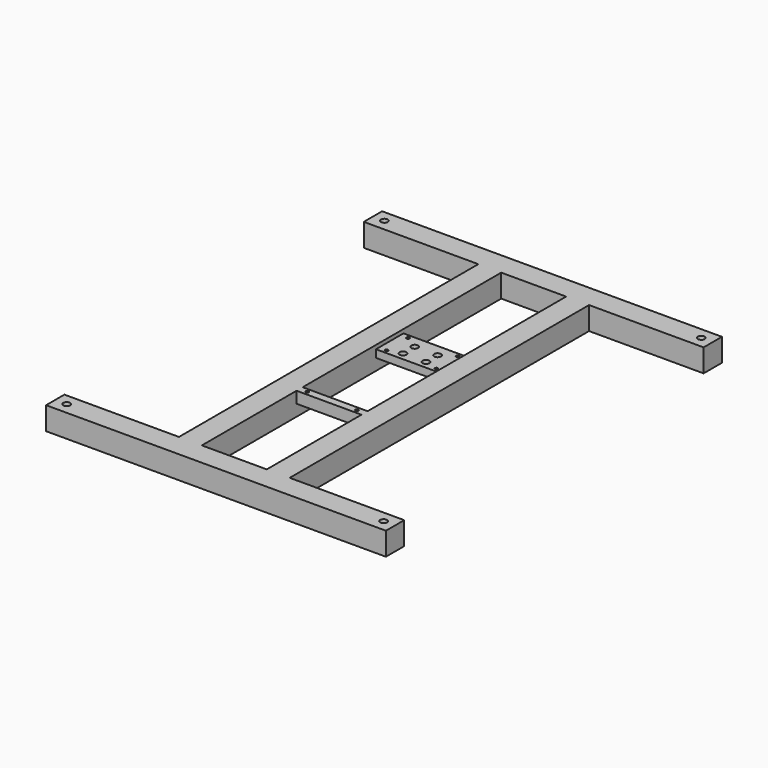
from build123d import *

# Parameters (mm, degrees)
F0_R     = 4.5
F0_W     = 85
F0_H     = 160
F0_H_2   = 10
F0_R_2   = 2
F1_DEPTH = 30
F2_W     = 85
F2_H     = 40
F2_R     = 4.5
F2_H_2   = 5
F3_DEPTH = 5
F4_W     = 85
F4_H     = 45
F4_R     = 2
F4_R_2   = 6
F5_DEPTH = 15
F4_R_3   = 4.5
F6_DEPTH = 15
F7_DEPTH = 25


with BuildPart() as f1:
    # F0 (on Top) → F1 (new body)
    with BuildSketch(Plane.XY):
        Polygon((115, -285), (115, 205), (265, 205), (265, 235), (-180, 235), (-180, 205), (-30, 205), (-30, -285), (-180, -285), (-180, -315), (265, -315), (265, -285), align=None)
        with Locations((-165, -300)):
            Circle(F0_R, mode=Mode.SUBTRACT)
        with Locations((250, -300)):
            Circle(F0_R, mode=Mode.SUBTRACT)
        Polygon((0, -120), (0, 0), (85, 0), (85, -120), (85, -130), (85, -285), (0, -285), (0, -130), align=None, mode=Mode.SUBTRACT)
        with Locations((27.5, 10)):
            Circle(F0_R, mode=Mode.SUBTRACT)
        with Locations((27.5, 29)):
            Circle(F0_R, mode=Mode.SUBTRACT)
        with Locations((-165, 220)):
            Circle(F0_R, mode=Mode.SUBTRACT)
        with Locations((57.5, 10)):
            Circle(F0_R, mode=Mode.SUBTRACT)
        with Locations((57.5, 29)):
            Circle(F0_R, mode=Mode.SUBTRACT)
        with Locations((42.5, 125)):
            Rectangle(F0_W, F0_H, mode=Mode.SUBTRACT)
        with Locations((250, 220)):
            Circle(F0_R, mode=Mode.SUBTRACT)
        with Locations((42.5, -125)):
            Rectangle(F0_W, F0_H_2)
        with Locations((10, -125)):
            Circle(F0_R_2, mode=Mode.SUBTRACT)
        with Locations((75, -125)):
            Circle(F0_R_2, mode=Mode.SUBTRACT)
    extrude(amount=F1_DEPTH)

    # F2 (on face) → F3 (cut)
    with BuildSketch(Plane.XY.offset(30)):
        with Locations((42.5, 20)):
            Rectangle(F2_W, F2_H)
        with Locations((27.5, 10)):
            Circle(F2_R, mode=Mode.SUBTRACT)
        with Locations((27.5, 29)):
            Circle(F2_R, mode=Mode.SUBTRACT)
        with Locations((57.5, 10)):
            Circle(F2_R, mode=Mode.SUBTRACT)
        with Locations((57.5, 29)):
            Circle(F2_R, mode=Mode.SUBTRACT)
        with Locations((42.5, 42.5)):
            Rectangle(F2_W, F2_H_2)
    extrude(amount=-F3_DEPTH, mode=Mode.SUBTRACT)

    # F4 (on face) + F0 (on Top) → F5 (cut)
    with BuildSketch(Plane.XY):
        with Locations((42.5, 22.5)):
            Rectangle(F4_W, F4_H)
        with Locations((10, 5)):
            Circle(F4_R, mode=Mode.SUBTRACT)
        with Locations((27.5, 10)):
            Circle(F4_R_2, mode=Mode.SUBTRACT)
        with Locations((10, 40)):
            Circle(F4_R, mode=Mode.SUBTRACT)
        with Locations((27.5, 29)):
            Circle(F4_R_2, mode=Mode.SUBTRACT)
        with Locations((57.5, 10)):
            Circle(F4_R_2, mode=Mode.SUBTRACT)
        with Locations((75, 5)):
            Circle(F4_R, mode=Mode.SUBTRACT)
        with Locations((57.5, 29)):
            Circle(F4_R_2, mode=Mode.SUBTRACT)
        with Locations((75, 40)):
            Circle(F4_R, mode=Mode.SUBTRACT)
    with BuildSketch(Plane.XY):
        with Locations((42.5, -125)):
            Rectangle(F0_W, F0_H_2)
        with Locations((10, -125)):
            Circle(F0_R_2, mode=Mode.SUBTRACT)
        with Locations((75, -125)):
            Circle(F0_R_2, mode=Mode.SUBTRACT)
    extrude(amount=F5_DEPTH, mode=Mode.SUBTRACT)

    # F4 (on face) → F6 (cut)
    with BuildSketch(Plane.XY):
        with Locations((27.5, 10)):
            Circle(F4_R_2)
        with Locations((27.5, 10)):
            Circle(F4_R_3, mode=Mode.SUBTRACT)
        with Locations((57.5, 10)):
            Circle(F4_R_2)
        with Locations((57.5, 10)):
            Circle(F4_R_3, mode=Mode.SUBTRACT)
        with Locations((57.5, 29)):
            Circle(F4_R_2)
        with Locations((57.5, 29)):
            Circle(F4_R_3, mode=Mode.SUBTRACT)
        with Locations((27.5, 29)):
            Circle(F4_R_2)
        with Locations((27.5, 29)):
            Circle(F4_R_3, mode=Mode.SUBTRACT)
    extrude(amount=F6_DEPTH, mode=Mode.SUBTRACT)

    # F4 (on face) → F7 (cut)
    with BuildSketch(Plane.XY):
        with Locations((10, 5)):
            Circle(F4_R)
        with Locations((10, 40)):
            Circle(F4_R)
        with Locations((75, 40)):
            Circle(F4_R)
        with Locations((75, 5)):
            Circle(F4_R)
    extrude(amount=F7_DEPTH, mode=Mode.SUBTRACT)


solid = f1.part
